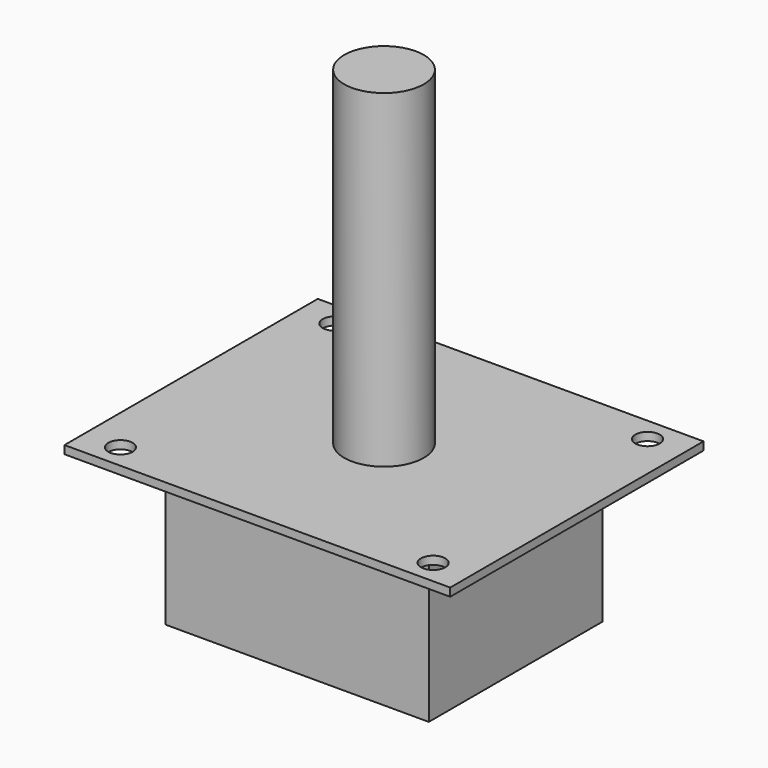
from build123d import *

# Parameters (mm, degrees)
F0_W     = 94.996
F0_H     = 77.978
F0_R     = 3
F1_DEPTH = 2
F2_W     = 64.889214
F2_H     = 53.515256
F3_DEPTH = 37
F4_R     = 9.793531
F5_DEPTH = 81


with BuildPart() as f1:
    # F0 (on Top) → F1 (new body)
    with BuildSketch(Plane.XY):
        Rectangle(F0_W, F0_H)
        with Locations((-38.5, -33)):
            Circle(F0_R, mode=Mode.SUBTRACT)
        with Locations((38.5, -33)):
            Circle(F0_R, mode=Mode.SUBTRACT)
        with Locations((-38.5, 33)):
            Circle(F0_R, mode=Mode.SUBTRACT)
        with Locations((38.5, 33)):
            Circle(F0_R, mode=Mode.SUBTRACT)
    extrude(amount=F1_DEPTH)

    # F2 (on face) → F3 (join)
    with BuildSketch(Plane(origin=(0, 0, 0), x_dir=(1, 0, 0), z_dir=(0, 0, -1))):
        Rectangle(F2_W, F2_H)
    extrude(amount=F3_DEPTH)

    # F4 (on face) → F5 (join)
    with BuildSketch(Plane.XY.offset(2)):
        Circle(F4_R)
    extrude(amount=F5_DEPTH)


solid = f1.part
